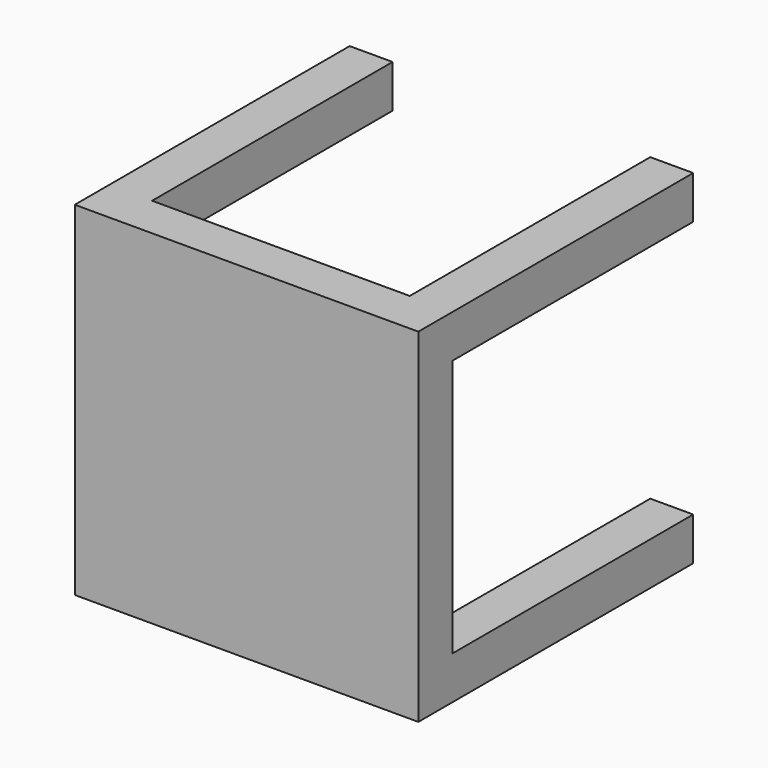
from build123d import *

# Parameters (mm, degrees)
F1_DEPTH = 400
F2_W     = 350
F2_H     = 300
F3_DEPTH = 400.001


with BuildPart() as f1:
    # F0 (on Top) → F1 (new body)
    with BuildSketch(Plane.XY):
        Polygon((-200, -200), (200, -200), (200, 200), (150, 200), (150, -150), (-150, -150), (-150, 200), (-200, 200), align=None)
    extrude(amount=F1_DEPTH)

    # F2 (on face) → F3 (cut, through all)
    with BuildSketch(Plane(origin=(-200, 0, 0), x_dir=(0, -1, 0), z_dir=(-1, 0, 0))):
        with Locations((-25, 200)):
            Rectangle(F2_W, F2_H)
    extrude(amount=-F3_DEPTH, mode=Mode.SUBTRACT)


solid = f1.part
